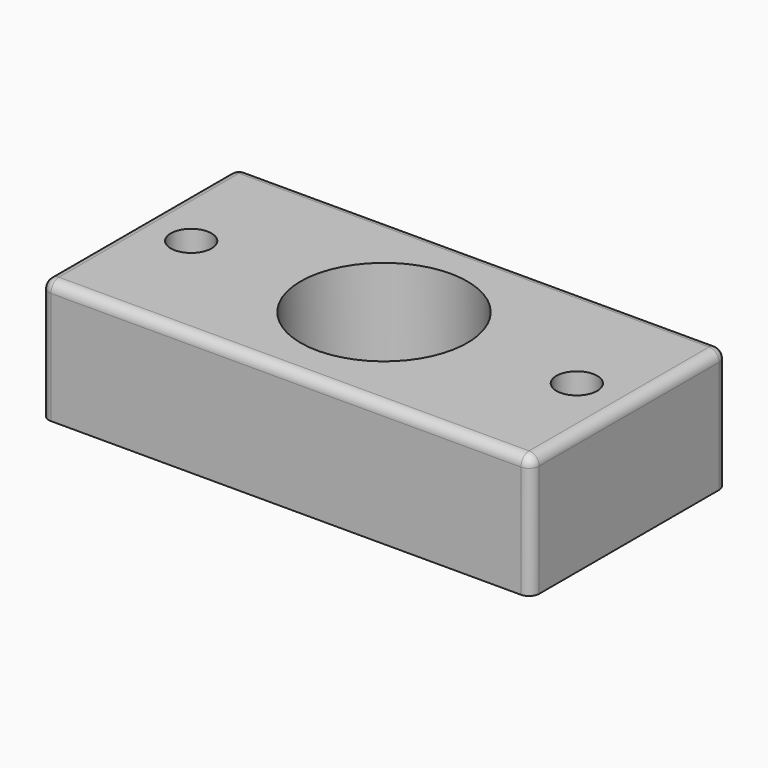
from build123d import *

# Parameters (mm, degrees)
F0_W     = 38.1
F0_H     = 19.05
F1_DEPTH = 9.525
F2_R     = 1.5875
F3_DEPTH = 9.525
F4_R     = 0.7874
F5_D     = 12.954


with BuildPart() as f1:
    # F0 (on Top) → F1 (new body)
    with BuildSketch(Plane.XY):
        Rectangle(F0_W, F0_H)
    extrude(amount=F1_DEPTH)

    # F2 (on face) → F3 (cut, through all)
    with BuildSketch(Plane.XY.offset(9.525)):
        with Locations((-14.986, 0)):
            Circle(F2_R)
        with Locations((14.986, 0)):
            Circle(F2_R)
    extrude(amount=-F3_DEPTH, mode=Mode.SUBTRACT)

    # F4
    f4_edges = [f1.edges().sort_by_distance(p)[0] for p in [
        (0, -9.525, 9.525),
        (-19.05, 0, 9.525),
        (0, 9.525, 9.525),
        (19.05, 0, 9.525),
        (19.05, -9.525, 4.7625),
        (19.05, 9.525, 4.7625),
        (-19.05, -9.525, 4.7625),
        (-19.05, 9.525, 4.7625),
    ]]
    fillet(f4_edges, radius=F4_R)

    # F5 (through all)
    with Locations(Plane.XY.offset(9.525)):
        with Locations((0, 0)):
            Hole(F5_D / 2)


solid = f1.part
